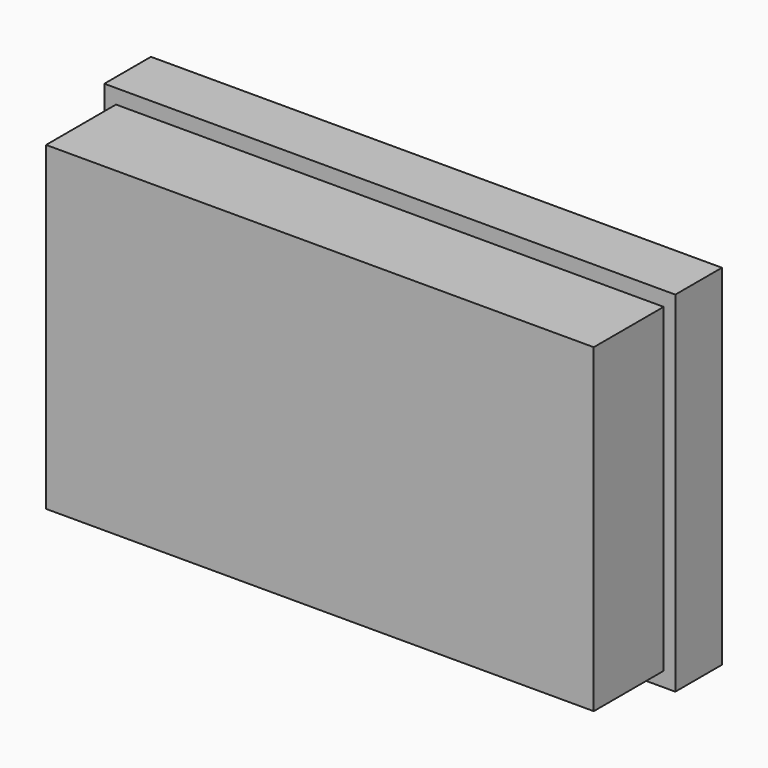
from build123d import *

# Parameters (mm, degrees)
F0_W     = 94
F0_H     = 55
F1_DEPTH = 25
F0_W_2   = 98
F0_H_2   = 60
F2_DEPTH = 10


with BuildPart() as f1:
    # F0 (on Front) → F1 (new body)
    with BuildSketch(Plane.XZ):
        Rectangle(F0_W, F0_H)
    extrude(amount=F1_DEPTH)

    # F0 (on Front) → F2 (join)
    with BuildSketch(Plane.XZ):
        Rectangle(F0_W_2, F0_H_2)
        Rectangle(F0_W, F0_H, mode=Mode.SUBTRACT)
    extrude(amount=F2_DEPTH)


solid = f1.part
